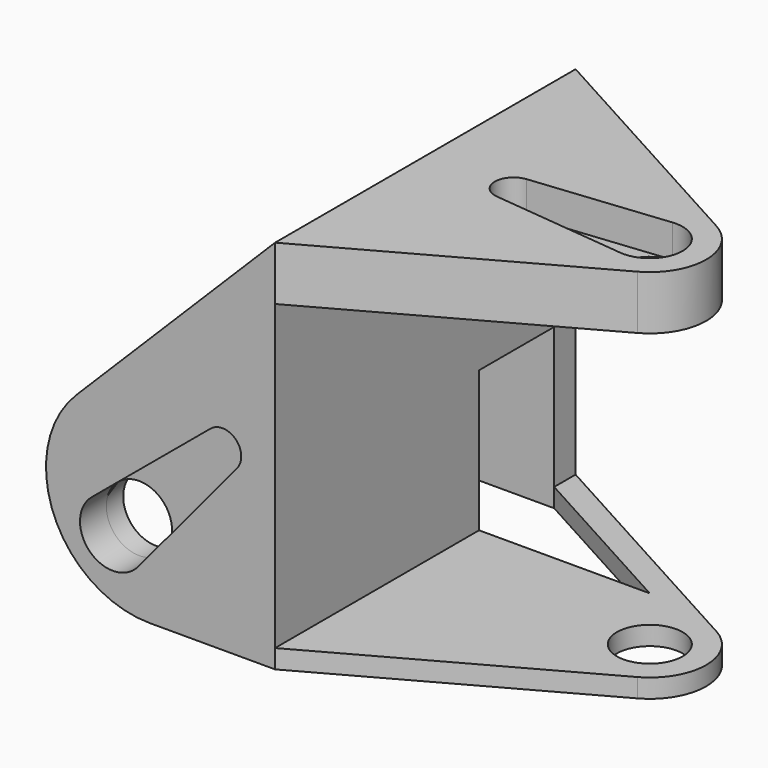
from build123d import *

# Parameters (mm, degrees)
PAD_DEPTH       = 40
POCKET_DEPTH    = 40.001
SKETCH002_W     = 30
SKETCH002_H     = 32.25
POCKET001_DEPTH = 40.001
POCKET002_DEPTH = 3.5
SKETCH004_R     = 3.5
POCKET003_DEPTH = 36.501
SKETCH005_W     = 25
SKETCH005_H     = 31.4
POCKET004_DEPTH = 40.001
POCKET005_DEPTH = 3.5
SKETCH007_R     = 3.5
POCKET006_DEPTH = 5
SKETCH008_R     = 3
POCKET007_DEPTH = 2.851
SKETCH009_W     = 15
SKETCH009_H     = 10
POCKET008_DEPTH = 2
POCKET009_DEPTH = 3


with BuildPart() as part:
    # Sketch → Pad (new body)
    with BuildSketch(Plane.XZ):
        with BuildLine():
            Line((-51.156854, 18.843146), (-30, 40))
            Line((-30, 40), (0, 40))
            Line((0, 40), (0, 0))
            Line((0, 0), (-43.351768, 0))
            ThreePointArc((-51.156854, 18.843146), (-53.549605, 6.813977), (-43.351768, 0))
        make_face()
    extrude(amount=PAD_DEPTH)

    # Sketch001 (on Face2 of Pad) → Pocket (cut, through all)
    with BuildSketch(Plane(origin=(0, 0, 40), x_dir=(-1, 0, 0), z_dir=(0, 0, 1))):
        with BuildLine():
            Line((30, 40), (0, 40))
            Line((0, 40), (0, 0))
            Line((0, 0), (30, 0))
            Line((30, 0), (3.207377, 14.743315))
            ThreePointArc((3.207377, 25.256685), (0.1, 20), (3.207377, 14.743315))
            Line((3.207377, 25.256685), (30, 40))
        make_face()
    extrude(amount=-POCKET_DEPTH, mode=Mode.SUBTRACT)

    # Sketch002 (on Face5 of Pocket) → Pocket001 (cut, through all)
    with BuildSketch(Plane.XZ.offset(40)):
        with Locations((-15, 18.125)):
            Rectangle(SKETCH002_W, SKETCH002_H)
    extrude(amount=-POCKET001_DEPTH, mode=Mode.SUBTRACT)

    # Sketch003 (on Face3 of Pocket001) → Pocket002 (cut)
    with BuildSketch(Plane(origin=(0, 0, 40), x_dir=(-1, 0, 0), z_dir=(0, 0, 1))):
        with BuildLine():
            ThreePointArc((6.462069, 23.481222), (2.6, 20), (6.462069, 16.518778))
            Line((6.462069, 16.518778), (20.806897, 18.01073))
            ThreePointArc((20.806897, 18.01073), (22.6, 20), (20.806897, 21.98927))
            Line((6.462069, 23.481222), (20.806897, 21.98927))
        make_face()
    extrude(amount=-POCKET002_DEPTH, mode=Mode.SUBTRACT)

    # Sketch004 (on Face19 of Pocket002) → Pocket003 (cut, through all)
    with BuildSketch(Plane(origin=(0, 0, 36.5), x_dir=(-1, 0, 0), z_dir=(0, 0, 1))):
        with Locations((6.1, 20)):
            Circle(SKETCH004_R)
    extrude(amount=-POCKET003_DEPTH, mode=Mode.SUBTRACT)

    # Sketch005 (on Face6 of Pocket003) → Pocket004 (cut, through all)
    with BuildSketch(Plane(origin=(0, 0, 0), x_dir=(1, 0, 0), z_dir=(0, 0, -1))):
        with Locations((-44.5, 18.55)):
            Rectangle(SKETCH005_W, SKETCH005_H)
    extrude(amount=-POCKET004_DEPTH, mode=Mode.SUBTRACT)

    # Sketch006 (on Face4 of Pocket004) → Pocket005 (cut)
    with BuildSketch(Plane.XZ.offset(40)):
        with BuildLine():
            ThreePointArc((-49.507404, 9.811674), (-49.742641, 4.647186), (-44.578153, 4.882423))
            Line((-44.578153, 4.882423), (-34.063583, 17.509529))
            ThreePointArc((-34.063583, 17.509529), (-34.186292, 20.203535), (-36.880298, 20.326244))
            Line((-49.507404, 9.811674), (-36.880298, 20.326244))
        make_face()
    extrude(amount=-POCKET005_DEPTH, mode=Mode.SUBTRACT)

    # Sketch007 (on Face31 of Pocket005) → Pocket006 (cut)
    with BuildSketch(Plane.XZ.offset(36.5)):
        with Locations((-47.267767, 7.12206)):
            Circle(SKETCH007_R)
    extrude(amount=-POCKET006_DEPTH, mode=Mode.SUBTRACT)

    # Sketch008 (on Face8 of Pocket006) → Pocket007 (cut, through all)
    with BuildSketch(Plane.XZ.offset(2.85)):
        with Locations((-47.267767, 7.12206)):
            Circle(SKETCH008_R)
    extrude(amount=-POCKET007_DEPTH, mode=Mode.SUBTRACT)

    # Sketch009 (on Face7 of Pocket007) → Pocket008 (cut)
    with BuildSketch(Plane(origin=(-32, 0, 0), x_dir=(0, 0, -1), z_dir=(-1, 0, 0))):
        with Locations((-9.5, 7.85)):
            Rectangle(SKETCH009_W, SKETCH009_H)
    extrude(amount=-POCKET008_DEPTH, mode=Mode.SUBTRACT)

    # Sketch010 (on Face10 of Pocket008) → Pocket009 (cut)
    with BuildSketch(Plane(origin=(0, 0, 0), x_dir=(1, 0, 0), z_dir=(0, 0, -1))):
        Polygon((-32, 12.85), (-11.827274, 12.85), (-30, 2.85), (-32, 2.85), align=None)
    extrude(amount=-POCKET009_DEPTH, mode=Mode.SUBTRACT)


solid = part.part
